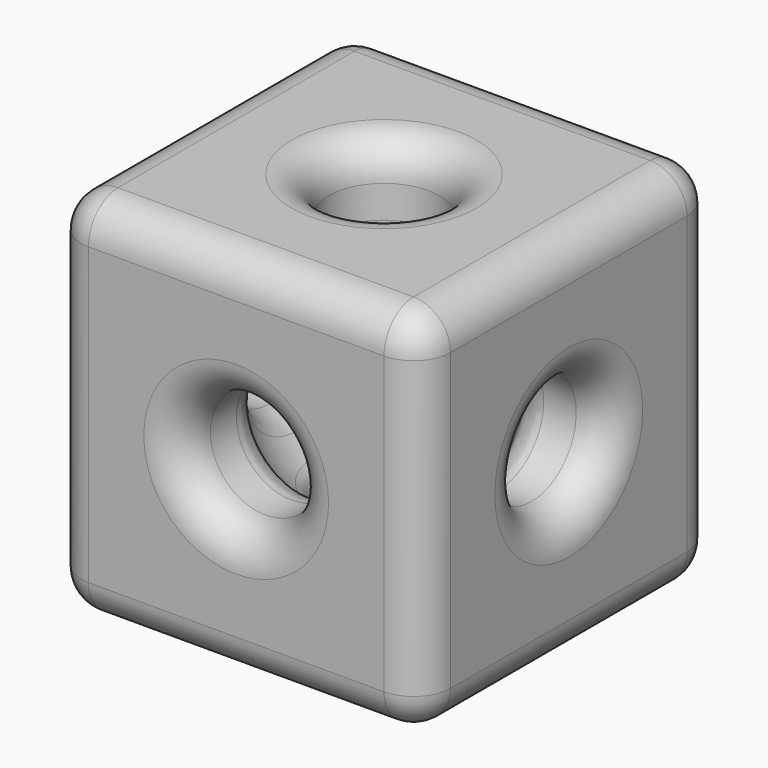
from build123d import *

# Parameters (mm, degrees)
F1_DEPTH  = 63.5
F4_R      = 19.05
F5_DEPTH  = 135.636
F6_R      = 19.05
F7_DEPTH  = 145.796
F8_R      = 12.7
F9_R      = 19.05
F10_DEPTH = 127
F11_R     = 12.7


with BuildPart() as f1:
    # F0 (on Top) → F1 (new body, symmetric)
    with BuildSketch(Plane.XY):
        Polygon((63.5, 63.5), (0, 63.5), (-63.5, 63.5), (-63.5, 0), (-63.5, -63.5), (0, -63.5), (63.5, -63.5), (63.5, 0), align=None)
    extrude(amount=F1_DEPTH, both=True)

    # F2 (on Top) → F3 (revolve, cut)
    with BuildSketch(Plane.XY):
        with BuildLine():
            Line((-38.1, 0), (38.1, 0))
            ThreePointArc((38.1, 0), (0, 38.1), (-38.1, 0))
        make_face()
    revolve(axis=Axis((0, 0, 0), (1, 0, 0)), mode=Mode.SUBTRACT)

    # F4 (on face) → F5 (cut)
    with BuildSketch(Plane.XY.offset(63.5)):
        Circle(F4_R)
    extrude(amount=-F5_DEPTH, mode=Mode.SUBTRACT)

    # F6 (on face) → F7 (cut)
    with BuildSketch(Plane.XZ.offset(63.5)):
        Circle(F6_R)
    extrude(amount=-F7_DEPTH, mode=Mode.SUBTRACT)

    # F8
    f8_edges = [f1.edges().sort_by_distance(p)[0] for p in [
        (-63.5, 0, -63.5),
        (0, 63.5, -63.5),
        (63.5, 0, -63.5),
        (63.5, 63.5, 0),
        (63.5, 0, 63.5),
        (0, 63.5, 63.5),
        (63.5, -63.5, 0),
        (0, -63.5, 63.5),
        (0, -63.5, -63.5),
        (-63.5, -63.5, 0),
        (-63.5, 63.5, 0),
        (-63.5, 0, 63.5),
        (-19.05, 0, 63.5),
        (-19.05, 63.5, 0),
        (-19.05, 0, -63.5),
        (-19.05, -63.5, 0),
        (0, 32.995568, 19.05),
        (0, 32.995568, -19.05),
        (-19.05, -32.995568, 0),
        (-19.05, 0, 32.995568),
        (-19.05, 0, -32.995568),
    ]]
    fillet(f8_edges, radius=F8_R)

    # F9 (on face) → F10 (cut)
    with BuildSketch(Plane.YZ.offset(63.5)):
        Circle(F9_R)
    extrude(amount=-F10_DEPTH, mode=Mode.SUBTRACT)

    # F11
    f11_edges = [f1.edges().sort_by_distance(p)[0] for p in [
        (63.5, -19.05, 0),
        (32.995568, -19.05, 0),
        (-32.995568, -19.05, 0),
        (-63.5, -19.05, 0),
    ]]
    fillet(f11_edges, radius=F11_R)


solid = f1.part
